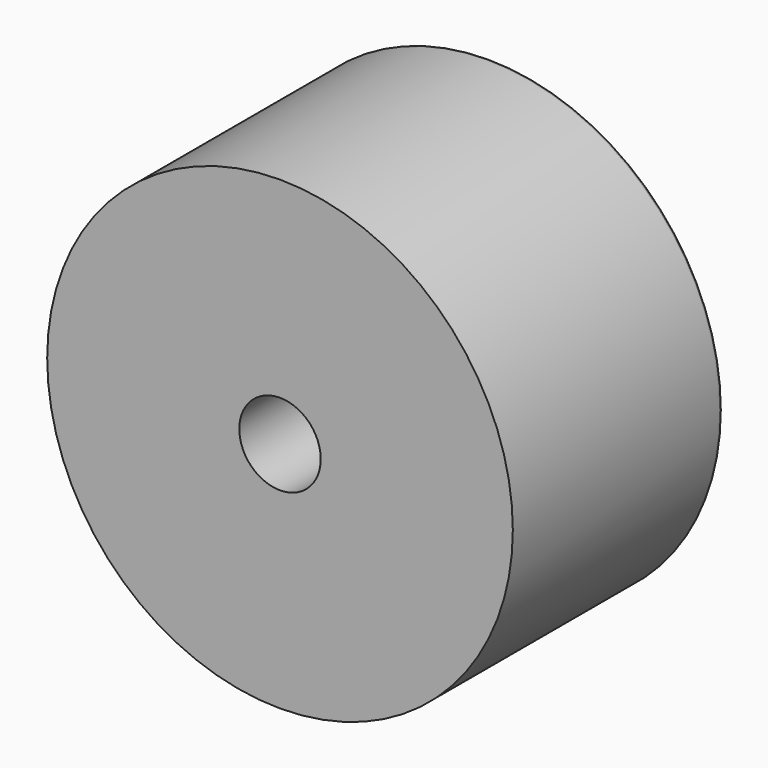
from build123d import *

# Parameters (mm, degrees)
F0_R     = 22.86
F0_R_2   = 3.999992
F1_DEPTH = 0.381
F2_SIZE  = 0.254
F3_R     = 3.999992
F3_R_2   = 1.49987
F4_DEPTH = 1.999996
F5_DEPTH = 25.4


with BuildPart() as f1:
    # F0 (on Front) → F1 (new body, symmetric)
    with BuildSketch(Plane.XZ):
        Circle(F0_R)
        Circle(F0_R_2, mode=Mode.SUBTRACT)
    extrude(amount=F1_DEPTH, both=True)

    # F2
    f2_edges = [f1.edges().sort_by_distance(p)[0] for p in [
        (-22.86, -0.381, 0),
        (-22.86, 0.381, 0),
    ]]
    chamfer(f2_edges, length=F2_SIZE)

    # F3 (on Front) → F4 (join, symmetric)
    with BuildSketch(Plane.XZ):
        Circle(F3_R)
        Circle(F3_R_2, mode=Mode.SUBTRACT)
    extrude(amount=F4_DEPTH, both=True)


with BuildPart() as f5:
    # F0 (on Front) → F5 (new body)
    with BuildSketch(Plane.XZ):
        Circle(F0_R)
        Circle(F0_R_2, mode=Mode.SUBTRACT)
    extrude(amount=F5_DEPTH)


solid = Compound([f1.part, f5.part])
